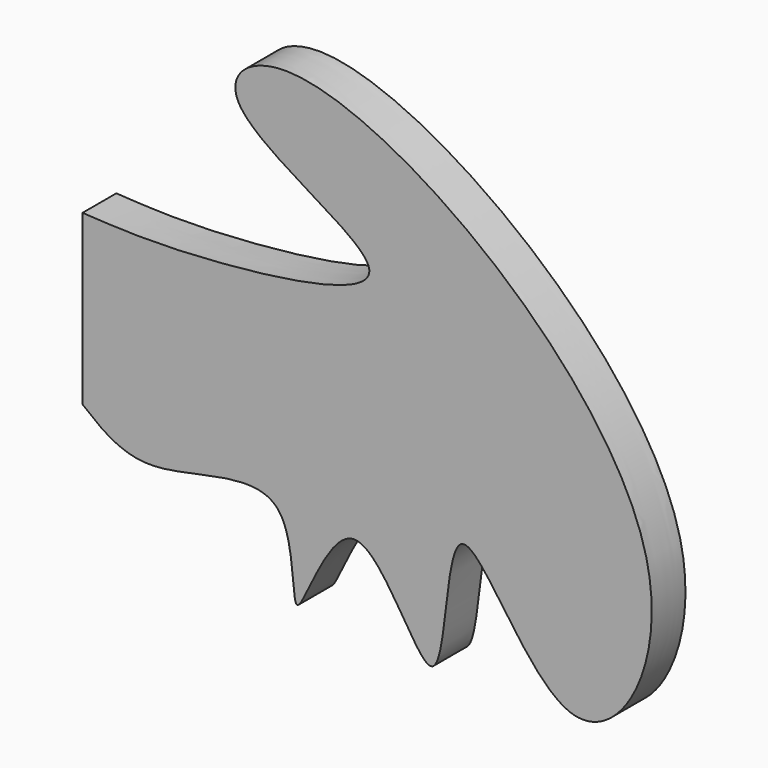
from build123d import *

# Parameters (mm, degrees)
F1_DEPTH = 12.7


with BuildPart() as f1:
    # F0 (on Front) → F1 (new body)
    with BuildSketch(Plane.XZ):
        with BuildLine():
            add(Edge.make_bspline(
                [(0, -50.8), (5.859061814, -55.6043195606), (19.1472219087, -66.5003489081), (66.5092932193, -44.2643598889), (60.8138498111, -102.5964494995), (81.4324628075, -35.3591807408), (110.7812745848, -115.0144571935), (107.740908803, -18.7356680113), (147.6073222582, -114.2461751661), (200.2603769935, -21.5669545593), (68.0527033469, 75.0258853272), (32.7098632022, 41.138793556), (117.0352046872, 8.9766275406), (32.5916339373, -1.9217050585), (10.3799604849, -0.6120535728), (0, 0)],
                knots=[0, 0, 0, 0, 0.0574132326, 0.1302113289, 0.188776232, 0.2523281096, 0.3227092537, 0.3943676085, 0.4762038212, 0.5629374818, 0.7055156111, 0.7580943102, 0.8424420169, 0.9263726936, 1, 1, 1, 1], degree=3))
            Line((0, 0), (0, -50.8))
        make_face()
    extrude(amount=F1_DEPTH)


solid = f1.part
